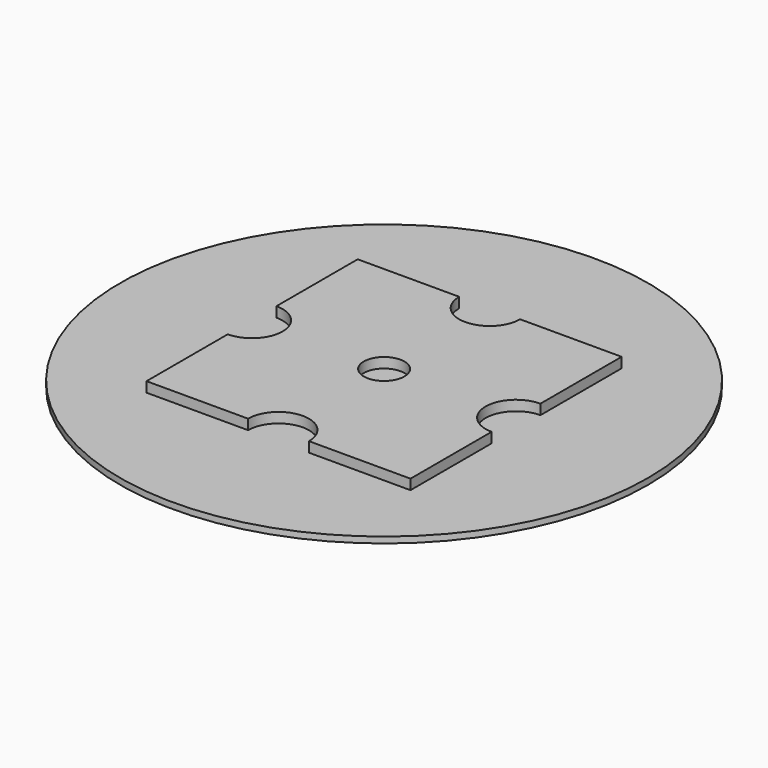
from build123d import *

# Parameters (mm, degrees)
F0_R     = 13
F1_DEPTH = 0.3
F2_R     = 1
F3_DEPTH = 0.5


with BuildPart() as f1:
    # F0 (on Top) → F1 (new body)
    with BuildSketch(Plane.XY):
        Circle(F0_R)
    extrude(amount=F1_DEPTH)

    # F2 (on face) → F3 (join)
    with BuildSketch(Plane.XY.offset(0.3)):
        with BuildLine():
            Line((6.5, 1.5), (6.5, 6.5))
            Line((6.5, 6.5), (1.5, 6.5))
            ThreePointArc((1.5, 6.5), (0, 5), (-1.5, 6.5))
            Line((-1.5, 6.5), (-6.5, 6.5))
            Line((-6.5, 6.5), (-6.5, 1.5))
            ThreePointArc((-6.5, 1.5), (-5, 0), (-6.5, -1.5))
            Line((-6.5, -1.5), (-6.5, -6.5))
            Line((-6.5, -6.5), (-1.5, -6.5))
            ThreePointArc((-1.5, -6.5), (0, -5), (1.5, -6.5))
            Line((1.5, -6.5), (6.5, -6.5))
            Line((6.5, -6.5), (6.5, -1.5))
            ThreePointArc((6.5, -1.5), (5, 0), (6.5, 1.5))
        make_face()
        Circle(F2_R, mode=Mode.SUBTRACT)
    extrude(amount=F3_DEPTH)


solid = f1.part
